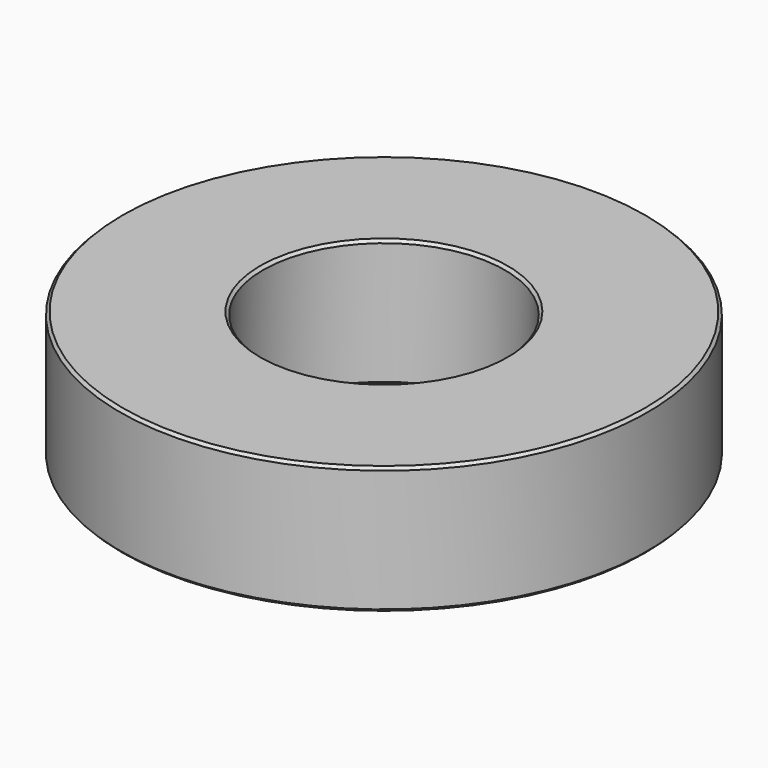
from build123d import *

# Parameters (mm, degrees)
F0_W    = 32.5
F0_H    = 29
F2_SIZE = 0.635


with BuildPart() as f1:
    # F0 (on Front) → F1 (revolve)
    with BuildSketch(Plane.XZ):
        with Locations((-43.75, 0)):
            Rectangle(F0_W, F0_H)
    revolve(axis=Axis((0, 0, 12.445999), (0, 0, -1)))

    # F2
    f2_edges = [f1.edges().sort_by_distance(p)[0] for p in [
        (27.5, 0, 14.5),
        (60, 0, 14.5),
        (27.5, 0, -14.5),
        (60, 0, -14.5),
    ]]
    chamfer(f2_edges, length=F2_SIZE)


solid = f1.part
